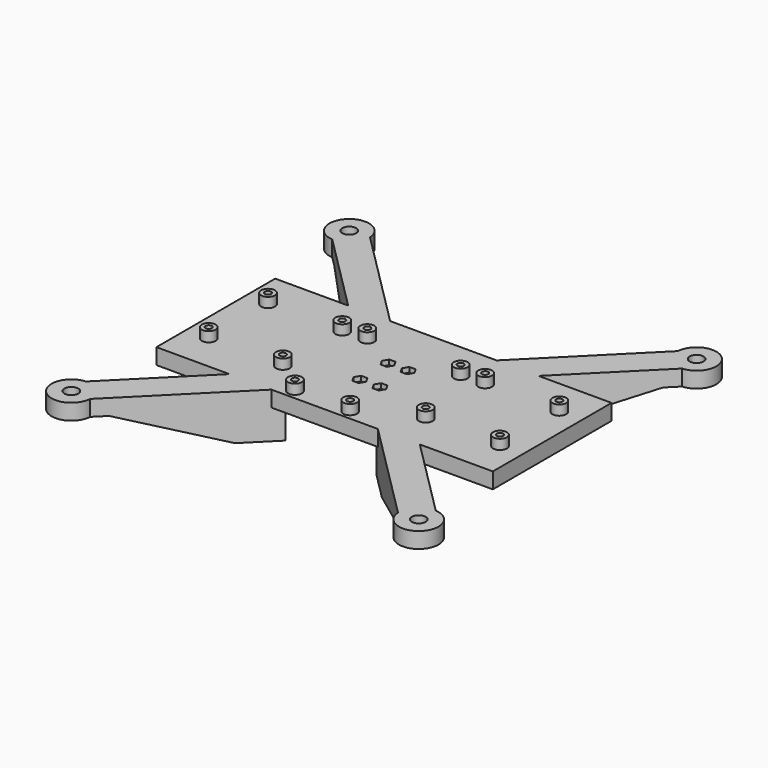
from build123d import *

# Parameters (mm, degrees)
F1_DEPTH  = 4
F4_DEPTH  = 15
F7_DEPTH  = 15
F8_R      = 3.5
F9_DEPTH  = 23.001
F10_R     = 1.6
F11_DEPTH = 23.001
F13_DEPTH = 2.5
F14_R     = 3.5
F14_R_2   = 1.6
F15_DEPTH = 5
F16_R     = 1.651
F17_DEPTH = 13.001
F19_DEPTH = 2.5
F20_R     = 3.5
F20_R_2   = 1.651
F21_DEPTH = 5


with BuildPart() as f1:
    # F0 (on Top) → F1 (new body, symmetric)
    with BuildSketch(Plane.XY):
        with BuildLine():
            Line((-48.1066017178, 37.5), (-85, 37.5))
            Line((-85, 37.5), (-85, -37.5))
            Line((-85, -37.5), (-48.1066017178, -37.5))
            Line((-48.1066017178, -37.5), (-88.3883476483, -77.7817459305))
            ThreePointArc((-88.3883476483, -77.7817459305), (-94.8331863348, -94.8331863348), (-77.7817459305, -88.3883476483))
            Line((-77.7817459305, -88.3883476483), (-26.8933982822, -37.5))
            Line((-26.8933982822, -37.5), (26.8933982822, -37.5))
            Line((26.8933982822, -37.5), (77.7817459305, -88.3883476483))
            ThreePointArc((77.7817459305, -88.3883476483), (94.8331863348, -94.8331863348), (88.3883476483, -77.7817459305))
            Line((88.3883476483, -77.7817459305), (48.1066017178, -37.5))
            Line((48.1066017178, -37.5), (85, -37.5))
            Line((85, -37.5), (85, 37.5))
            Line((85, 37.5), (48.1066017178, 37.5))
            Line((48.1066017178, 37.5), (88.3883476483, 77.7817459305))
            ThreePointArc((88.3883476483, 77.7817459305), (94.8331863348, 94.8331863348), (77.7817459305, 88.3883476483))
            Line((77.7817459305, 88.3883476483), (26.8933982822, 37.5))
            Line((26.8933982822, 37.5), (-26.8933982822, 37.5))
            Line((-26.8933982822, 37.5), (-77.7817459305, 88.3883476483))
            ThreePointArc((-77.7817459305, 88.3883476483), (-94.8331863348, 94.8331863348), (-88.3883476483, 77.7817459305))
            Line((-88.3883476483, 77.7817459305), (-48.1066017178, 37.5))
        make_face()
    extrude(amount=F1_DEPTH, both=True)

    # F3 (on offset) → F4 (join, through all)
    with BuildSketch(Plane(origin=(5.3033008589, -5.3033008589, 0), x_dir=(0.7071067812, 0.7071067812, 0), z_dir=(0.7071067812, -0.7071067812, 0))):
        Polygon((-40, -4), (-110, -4), (-60, -19), (-40, -19), align=None)
        Polygon((40, -4), (40, -19), (60, -19), (110, -4), align=None)
    extrude(amount=-F4_DEPTH)

    # F6 (on offset) → F7 (join, through all)
    with BuildSketch(Plane(origin=(-5.3033008589, -5.3033008589, 0), x_dir=(0.7071067812, -0.7071067812, 0), z_dir=(-0.7071067812, -0.7071067812, 0))):
        Polygon((-40, -19), (-40, -4), (-110, -4), (-60, -19), align=None)
        Polygon((40, -4), (40, -19), (60, -19), (110, -4), align=None)
    extrude(amount=-F7_DEPTH)

    # F8 (on face) → F9 (cut, through all)
    with BuildSketch(Plane.XY.offset(4)):
        with Locations((-87.7621185229, 87.7621185229)):
            Circle(F8_R)
        with Locations((87.7621185229, 87.7621185229)):
            Circle(F8_R)
        with Locations((87.7621185229, -87.7621185229)):
            Circle(F8_R)
        with Locations((-87.7621185229, -87.7621185229)):
            Circle(F8_R)
    extrude(amount=-F9_DEPTH, mode=Mode.SUBTRACT)

    # F10 (on face) → F11 (cut, through all)
    with BuildSketch(Plane.XY.offset(4)):
        with Locations((-24.1, 19.6)):
            Circle(F10_R)
        with Locations((24.1, 18.3)):
            Circle(F10_R)
        with Locations((-19, -32.5)):
            Circle(F10_R)
        with Locations((8.9, -32.5)):
            Circle(F10_R)
        with Locations((-36.1, 18.75)):
            Circle(F10_R)
        with Locations((-73.6, 18.75)):
            Circle(F10_R)
        with Locations((-73.6, -18.75)):
            Circle(F10_R)
        with Locations((-36.1, -18.75)):
            Circle(F10_R)
        with Locations((36.1, 18.75)):
            Circle(F10_R)
        with Locations((36.1, -18.75)):
            Circle(F10_R)
        with Locations((73.6, -18.75)):
            Circle(F10_R)
        with Locations((73.6, 18.75)):
            Circle(F10_R)
    extrude(amount=-F11_DEPTH, mode=Mode.SUBTRACT)

    # F12 (on face) → F13 (cut)
    with BuildSketch(Plane(origin=(0, 0, -4), x_dir=(1, 0, 0), z_dir=(0, 0, -1))):
        Polygon((-20.5877132403, 35.25), (-22.1754264805, 32.5), (-20.5877132403, 29.75), (-17.4122867597, 29.75), (-15.8245735195, 32.5), (-17.4122867597, 35.25), align=None)
        Polygon((7.3122867597, 35.25), (5.7245735195, 32.5), (7.3122867597, 29.75), (10.4877132403, 29.75), (12.0754264805, 32.5), (10.4877132403, 35.25), align=None)
        Polygon((34.5122867597, 21.5), (32.9245735195, 18.75), (34.5122867597, 16), (37.6877132403, 16), (39.2754264805, 18.75), (37.6877132403, 21.5), align=None)
        Polygon((72.0122867597, 21.5), (70.4245735195, 18.75), (72.0122867597, 16), (75.1877132403, 16), (76.7754264805, 18.75), (75.1877132403, 21.5), align=None)
        Polygon((72.0122867597, -16), (70.4245735195, -18.75), (72.0122867597, -21.5), (75.1877132403, -21.5), (76.7754264805, -18.75), (75.1877132403, -16), align=None)
        Polygon((37.6877132403, -16), (34.5122867597, -16), (32.9245735195, -18.75), (34.5122867597, -21.5), (37.6877132403, -21.5), (39.2754264805, -18.75), align=None)
        Polygon((22.5122867597, -15.55), (20.9245735195, -18.3), (22.5122867597, -21.05), (25.6877132403, -21.05), (27.2754264805, -18.3), (25.6877132403, -15.55), align=None)
        Polygon((-22.5122867597, -16.85), (-25.6877132403, -16.85), (-27.2754264805, -19.6), (-25.6877132403, -22.35), (-22.5122867597, -22.35), (-20.9245735195, -19.6), align=None)
        Polygon((-34.5122867597, -16), (-37.6877132403, -16), (-39.2754264805, -18.75), (-37.6877132403, -21.5), (-34.5122867597, -21.5), (-32.9245735195, -18.75), align=None)
        Polygon((-37.6877132403, 21.5), (-39.2754264805, 18.75), (-37.6877132403, 16), (-34.5122867597, 16), (-32.9245735195, 18.75), (-34.5122867597, 21.5), align=None)
        Polygon((-70.4245735195, 18.75), (-72.0122867597, 21.5), (-75.1877132403, 21.5), (-76.7754264805, 18.75), (-75.1877132403, 16), (-72.0122867597, 16), align=None)
        Polygon((-70.4245735195, -18.75), (-72.0122867597, -16), (-75.1877132403, -16), (-76.7754264805, -18.75), (-75.1877132403, -21.5), (-72.0122867597, -21.5), align=None)
    extrude(amount=-F13_DEPTH, mode=Mode.SUBTRACT)

    # F14 (on face) → F15 (join)
    with BuildSketch(Plane.XY.offset(4)):
        with Locations((-19, -32.5)):
            Circle(F14_R)
        with Locations((-19, -32.5)):
            Circle(F14_R_2, mode=Mode.SUBTRACT)
        with Locations((-24.1, 19.6)):
            Circle(F14_R)
        with Locations((-24.1, 19.6)):
            Circle(F14_R_2, mode=Mode.SUBTRACT)
        with Locations((-36.1, 18.75)):
            Circle(F14_R)
        with Locations((-36.1, 18.75)):
            Circle(F14_R_2, mode=Mode.SUBTRACT)
        with Locations((-73.6, 18.75)):
            Circle(F14_R)
        with Locations((-73.6, 18.75)):
            Circle(F14_R_2, mode=Mode.SUBTRACT)
        with Locations((-73.6, -18.75)):
            Circle(F14_R)
        with Locations((-73.6, -18.75)):
            Circle(F14_R_2, mode=Mode.SUBTRACT)
        with Locations((-36.1, -18.75)):
            Circle(F14_R)
        with Locations((-36.1, -18.75)):
            Circle(F14_R_2, mode=Mode.SUBTRACT)
        with Locations((8.9, -32.5)):
            Circle(F14_R)
        with Locations((8.9, -32.5)):
            Circle(F14_R_2, mode=Mode.SUBTRACT)
        with Locations((24.1, 18.3)):
            Circle(F14_R)
        with Locations((24.1, 18.3)):
            Circle(F14_R_2, mode=Mode.SUBTRACT)
        with Locations((36.1, 18.75)):
            Circle(F14_R)
        with Locations((36.1, 18.75)):
            Circle(F14_R_2, mode=Mode.SUBTRACT)
        with Locations((73.6, 18.75)):
            Circle(F14_R)
        with Locations((73.6, 18.75)):
            Circle(F14_R_2, mode=Mode.SUBTRACT)
        with Locations((73.6, -18.75)):
            Circle(F14_R)
        with Locations((73.6, -18.75)):
            Circle(F14_R_2, mode=Mode.SUBTRACT)
        with Locations((36.1, -18.75)):
            Circle(F14_R)
        with Locations((36.1, -18.75)):
            Circle(F14_R_2, mode=Mode.SUBTRACT)
    extrude(amount=F15_DEPTH)

    # F16 (on face) → F17 (cut, through all)
    with BuildSketch(Plane(origin=(0, 0, -4), x_dir=(1, 0, 0), z_dir=(0, 0, -1))):
        with Locations((-5.08, 8.89)):
            Circle(F16_R)
        with Locations((5.08, 8.89)):
            Circle(F16_R)
        with Locations((5.08, -8.89)):
            Circle(F16_R)
        with Locations((-5.08, -8.89)):
            Circle(F16_R)
    extrude(amount=-F17_DEPTH, mode=Mode.SUBTRACT)

    # F18 (on face) → F19 (cut)
    with BuildSketch(Plane.XY.offset(4)):
        Polygon((-3.4922867597, 11.64), (-6.6677132403, 11.64), (-8.2554264805, 8.89), (-6.6677132403, 6.14), (-3.4922867597, 6.14), (-1.9045735195, 8.89), align=None)
        Polygon((8.2554264805, 8.89), (6.6677132403, 11.64), (3.4922867597, 11.64), (1.9045735195, 8.89), (3.4922867597, 6.14), (6.6677132403, 6.14), align=None)
        Polygon((8.2554264805, -8.89), (6.6677132403, -6.14), (3.4922867597, -6.14), (1.9045735195, -8.89), (3.4922867597, -11.64), (6.6677132403, -11.64), align=None)
        Polygon((-3.4922867597, -6.14), (-6.6677132403, -6.14), (-8.2554264805, -8.89), (-6.6677132403, -11.64), (-3.4922867597, -11.64), (-1.9045735195, -8.89), align=None)
    extrude(amount=-F19_DEPTH, mode=Mode.SUBTRACT)

    # F20 (on face) → F21 (join)
    with BuildSketch(Plane(origin=(0, 0, -4), x_dir=(1, 0, 0), z_dir=(0, 0, -1))):
        with Locations((-5.08, -8.89)):
            Circle(F20_R)
        with Locations((-5.08, -8.89)):
            Circle(F20_R_2, mode=Mode.SUBTRACT)
        with Locations((-5.08, 8.89)):
            Circle(F20_R)
        with Locations((-5.08, 8.89)):
            Circle(F20_R_2, mode=Mode.SUBTRACT)
        with Locations((5.08, 8.89)):
            Circle(F20_R)
        with Locations((5.08, 8.89)):
            Circle(F20_R_2, mode=Mode.SUBTRACT)
        with Locations((5.08, -8.89)):
            Circle(F20_R)
        with Locations((5.08, -8.89)):
            Circle(F20_R_2, mode=Mode.SUBTRACT)
    extrude(amount=F21_DEPTH)


solid = f1.part
